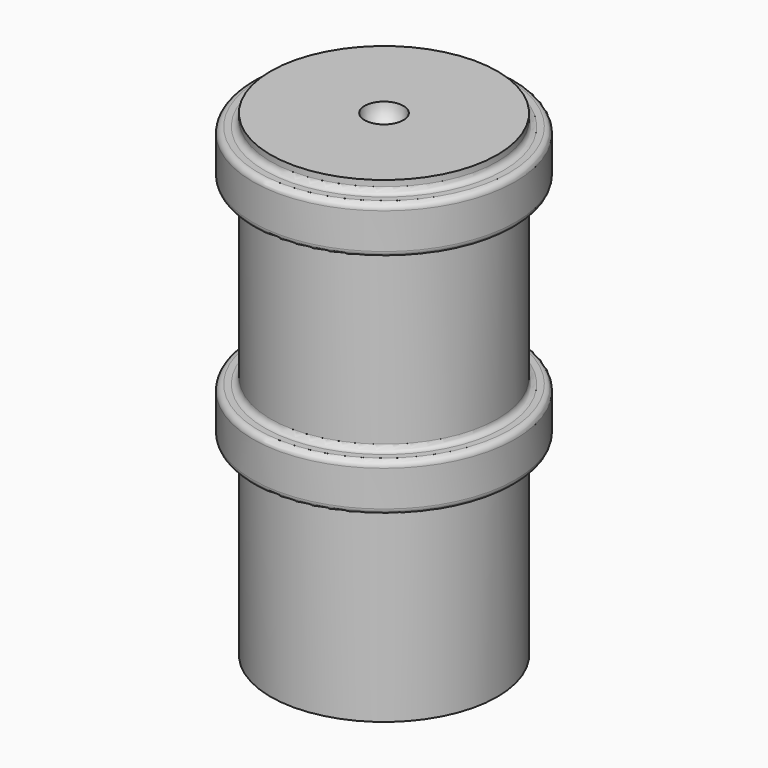
from build123d import *


with BuildPart() as f1:
    # F0 (on Front) → F1 (revolve)
    with BuildSketch(Plane.XZ):
        with BuildLine():
            Line((9.5, 28.942025), (1.625, 28.942025))
            ThreePointArc((1.625, 28.942025), (1.149049, 27.792976), (0, 27.317025))
            Line((0, 27.317025), (0, 26.442025))
            Line((0, 26.442025), (8.6, 26.442025))
            Line((8.6, 26.442025), (8.6, 16.292025))
            Line((8.6, 16.292025), (8.6, 14.992025))
            Line((8.6, 14.992025), (8.6, -11.057975))
            Line((8.6, -11.057975), (9.5, -11.057975))
            Line((9.5, -11.057975), (9.5, 4.442025))
            ThreePointArc((9.5, 4.442025), (9.646447, 4.795578), (10, 4.942025))
            Line((10, 4.942025), (10.5, 4.942025))
            ThreePointArc((10.5, 4.942025), (10.853553, 5.088471), (11, 5.442025))
            Line((11, 5.442025), (11, 8.442025))
            ThreePointArc((11, 8.442025), (10.853553, 8.795578), (10.5, 8.942025))
            Line((10.5, 8.942025), (10, 8.942025))
            ThreePointArc((10, 8.942025), (9.646447, 9.088471), (9.5, 9.442025))
            Line((9.5, 9.442025), (9.5, 23.442025))
            ThreePointArc((9.5, 23.442025), (9.646447, 23.795578), (10, 23.942025))
            Line((10, 23.942025), (10.5, 23.942025))
            ThreePointArc((10.5, 23.942025), (10.853553, 24.088471), (11, 24.442025))
            Line((11, 24.442025), (11, 27.442025))
            ThreePointArc((11, 27.442025), (10.853553, 27.795578), (10.5, 27.942025))
            Line((10.5, 27.942025), (10, 27.942025))
            ThreePointArc((10, 27.942025), (9.646447, 28.088471), (9.5, 28.442025))
            Line((9.5, 28.442025), (9.5, 28.942025))
        make_face()
        with BuildLine():
            Line((8.6, 14.992025), (8.6, 16.292025))
            ThreePointArc((8.6, 16.292025), (7.95, 15.642025), (8.6, 14.992025))
        make_face()
    revolve(axis=Axis((0, 0, 27.692025), (0, 0, -1)))


solid = f1.part
